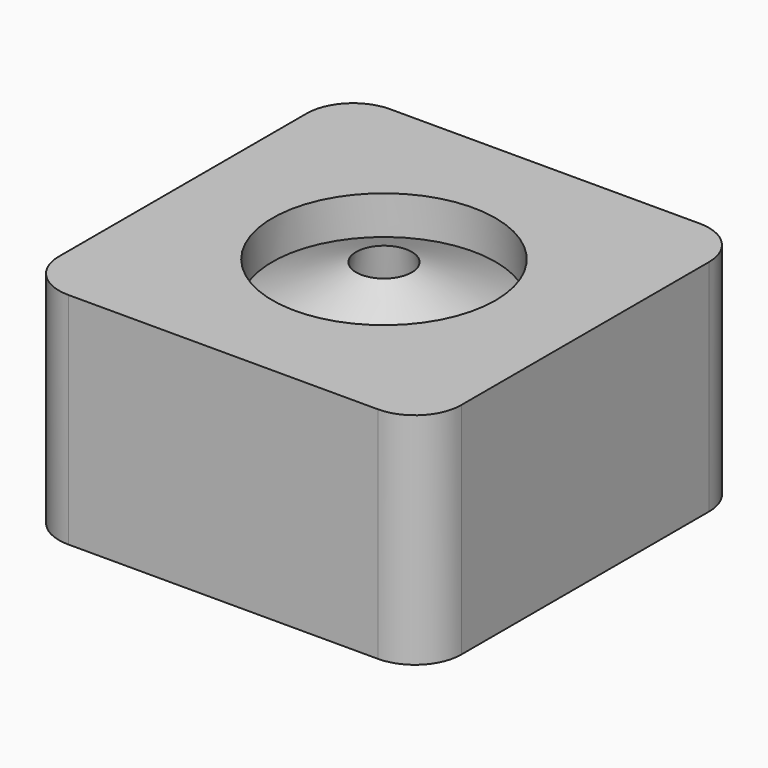
from build123d import *

# Parameters (mm, degrees)
F2_R     = 12.030304
F3_DEPTH = 23.7


with BuildPart() as f1:
    # F0 (on Front) → F1 (revolve)
    with BuildSketch(Plane.XZ):
        Polygon((21.5, 15.483735), (3, 23.423815), (7, 0), (7, 12.614677), (12, 12.614677), (12, 0), (21.5, 0), align=None)
    revolve(axis=Axis((0, 0, 20), (0, 0, 1)))

    # F2 (on Top) → F3 (join)
    with BuildSketch(Plane.XY):
        with BuildLine():
            Line((16.699362, 21.699362), (-16.699362, 21.699362))
            ThreePointArc((-16.699362, 21.699362), (-20.234895, 20.234895), (-21.699362, 16.699362))
            Line((-21.699362, 16.699362), (-21.699362, -16.699362))
            ThreePointArc((-21.699362, -16.699362), (-20.234895, -20.234895), (-16.699362, -21.699362))
            Line((-16.699362, -21.699362), (16.699362, -21.699362))
            ThreePointArc((16.699362, -21.699362), (20.234895, -20.234895), (21.699362, -16.699362))
            Line((21.699362, -16.699362), (21.699362, 16.699362))
            ThreePointArc((21.699362, 16.699362), (20.234895, 20.234895), (16.699362, 21.699362))
        make_face()
        Circle(F2_R, mode=Mode.SUBTRACT)
    extrude(amount=F3_DEPTH)


solid = f1.part
